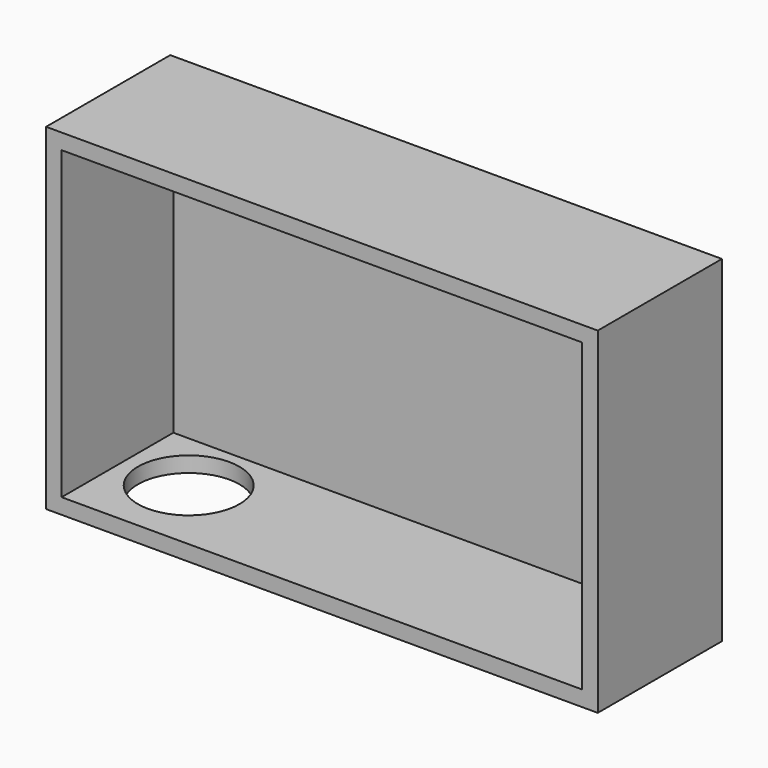
from build123d import *

# Parameters (mm, degrees)
F0_W     = 90.2919955552
F0_H     = 55.083796382
F1_DEPTH = 12.7
F2_T     = -2.54
F3_R     = 8.3062100312
F4_DEPTH = 25.4


with BuildPart() as f1:
    # F0 (on Front) → F1 (new body, symmetric)
    with BuildSketch(Plane.XZ):
        with Locations((4.5429933816, -1.2777205557)):
            Rectangle(F0_W, F0_H)
    extrude(amount=F1_DEPTH, both=True)

    # F2
    f2_openings = [f1.faces().sort_by_distance(p)[0] for p in [
        (4.542993, -12.7, -1.277721),
    ]]
    offset(amount=F2_T, openings=f2_openings)

    # F3 (on face) → F4 (cut)
    with BuildSketch(Plane(origin=(0, 0, -28.8196187466), x_dir=(1, 0, 0), z_dir=(0, 0, -1))):
        with Locations((-27.4217892438, 0)):
            Circle(F3_R)
    extrude(amount=-F4_DEPTH, mode=Mode.SUBTRACT)


solid = f1.part
